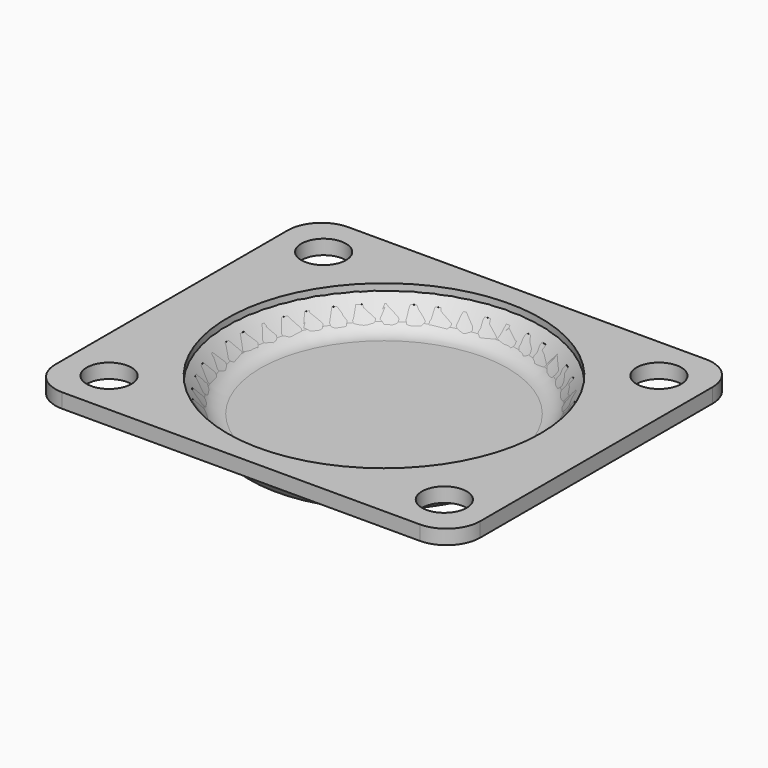
from build123d import *

# Parameters (mm, degrees)
FILLET_R        = 1
FILLET001_R     = 2
FILLET002_R     = 2
BOX_W           = 38
BOX_H           = 32
BOX_DEPTH       = 1.3
SKETCH001_R     = 14
POCKET_DEPTH    = 1.301
FILLET003_R     = 3
SKETCH002_R     = 2
POCKET001_DEPTH = 1.301


with BuildPart() as revolution:
    # Sketch → Revolution (revolve)
    with BuildSketch(Plane.XZ):
        Polygon((0, 0), (12, 0), (14.5, 3), (16, 3), (16, 4.3), (14.5, 4.3), (12, 1.3), (0, 1.3), align=None)
    revolve(axis=Axis((0, 0, 0), (0, 0, 1)))


with BuildPart() as fillet002:
    # Fillet base: copy of Revolution
    add(revolution.part)

    # Fillet
    fillet_edges = [fillet002.edges().sort_by_distance(p)[0] for p in [
        (-14.5, 0, 4.3),
    ]]
    fillet(fillet_edges, radius=FILLET_R)

    # Fillet001
    fillet001_edges = [fillet002.edges().sort_by_distance(p)[0] for p in [
        (-12, 0, 1.3),
    ]]
    fillet(fillet001_edges, radius=FILLET001_R)

    # Fillet002
    fillet002_edges = [fillet002.edges().sort_by_distance(p)[0] for p in [
        (-12, 0, 0),
        (-14.5, 0, 3),
    ]]
    fillet(fillet002_edges, radius=FILLET002_R)


with BuildPart() as cube:
    # Box → Box (new body)
    with BuildSketch(Plane(origin=(-19, -16, 3), x_dir=(1, 0, 0), z_dir=(0, 0, 1))):
        with Locations((19, 16)):
            Rectangle(BOX_W, BOX_H)
    extrude(amount=BOX_DEPTH)


with BuildPart() as cut:
    # Cut base: copy of Revolution
    add(revolution.part)

    # Cut: cut Cube
    add(cube.part, mode=Mode.SUBTRACT)


with BuildPart() as pocket001:
    # Pocket base: copy of Cube
    add(cube.part)

    # Sketch001 → Pocket (cut, through all)
    with BuildSketch(Plane(origin=(-19, -16, 4.3), x_dir=(1, 0, 0), z_dir=(0, 0, 1))):
        with Locations((19, 16)):
            Circle(SKETCH001_R)
    extrude(amount=-POCKET_DEPTH, mode=Mode.SUBTRACT)

    # Fillet003
    fillet003_edges = [pocket001.edges().sort_by_distance(p)[0] for p in [
        (-19, -16, 3.65),
        (19, -16, 3.65),
        (19, 16, 3.65),
        (-19, 16, 3.65),
    ]]
    fillet(fillet003_edges, radius=FILLET003_R)

    # Sketch002 → Pocket001 (cut, through all)
    with BuildSketch(Plane(origin=(-19, -16, 4.3), x_dir=(1, 0, 0), z_dir=(0, 0, 1))):
        with Locations((4, 4)):
            Circle(SKETCH002_R)
        with Locations((34, 4)):
            Circle(SKETCH002_R)
        with Locations((34, 28)):
            Circle(SKETCH002_R)
        with Locations((4, 28)):
            Circle(SKETCH002_R)
    extrude(amount=-POCKET001_DEPTH, mode=Mode.SUBTRACT)


solid = Compound([fillet002.part, cut.part, pocket001.part])
